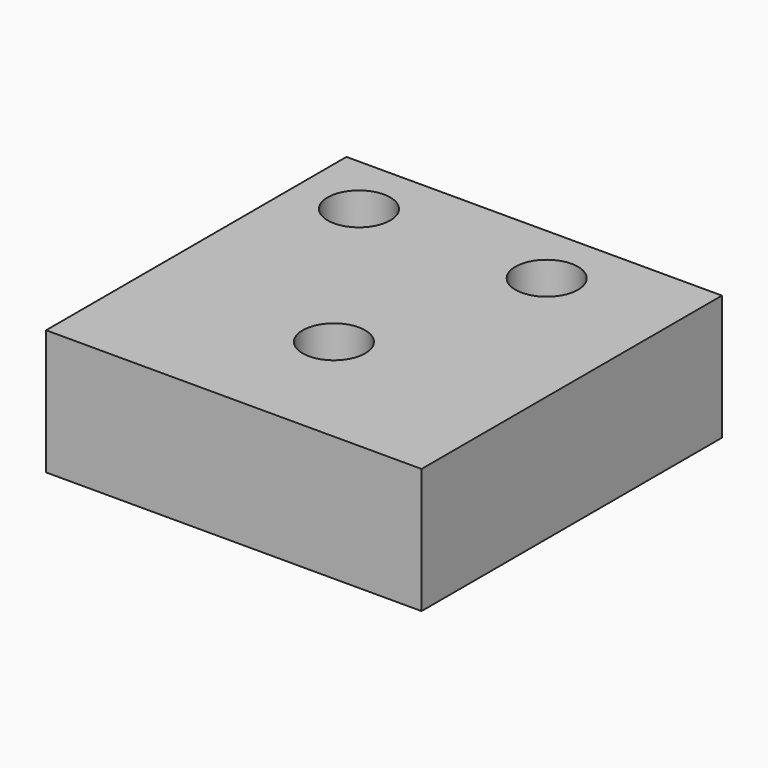
from build123d import *

# Parameters (mm, degrees)
F0_W     = 30
F0_H     = 30
F1_DEPTH = 10
F2_R     = 2.5
F3_DEPTH = 5


with BuildPart() as f1:
    # F0 (on Top) → F1 (new body)
    with BuildSketch(Plane.XY):
        with Locations((15, 15)):
            Rectangle(F0_W, F0_H)
    extrude(amount=F1_DEPTH)

    # F2 (on face) → F3 (cut)
    with BuildSketch(Plane.XY.offset(10)):
        with Locations((5, 25)):
            Circle(F2_R)
        with Locations((20, 25)):
            Circle(F2_R)
        with Locations((15, 10)):
            Circle(F2_R)
    extrude(amount=-F3_DEPTH, mode=Mode.SUBTRACT)


solid = f1.part
